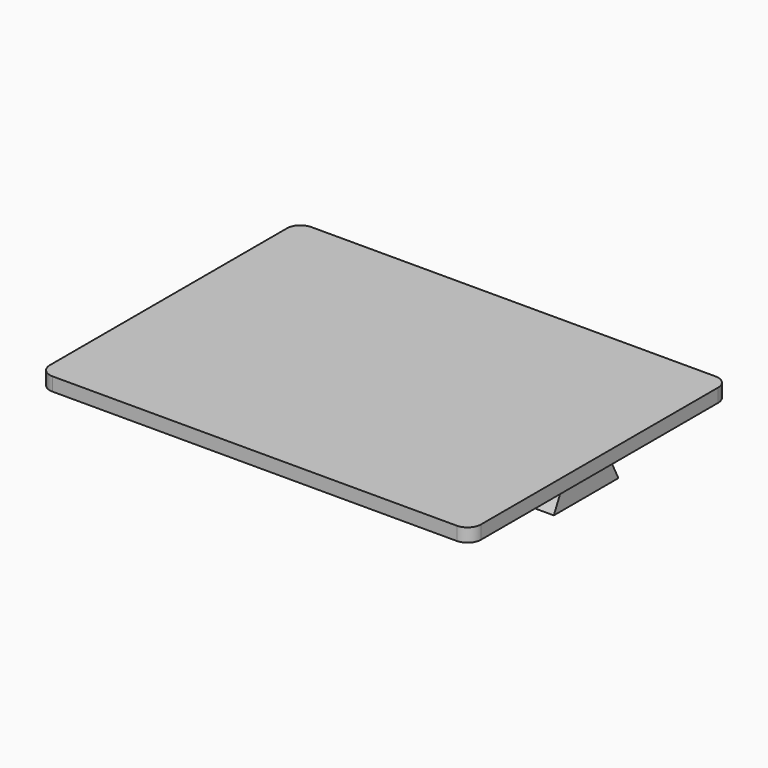
from build123d import *

# Parameters (mm, degrees)
F0_W          = 160
F0_H          = 120
F1_DEPTH      = 5
F2_R          = 5
F4_DEPTH      = 160
F5_W          = 90
F5_H          = 15
F5_W_2        = 5
F6_DEPTH      = 25
F6_DEPTH_BACK = 25


with BuildPart() as f1:
    # F0 (on Top) → F1 (new body)
    with BuildSketch(Plane.XY):
        Rectangle(F0_W, F0_H)
    extrude(amount=F1_DEPTH)

    # F2
    f2_edges = [f1.edges().sort_by_distance(p)[0] for p in [
        (80, 60, 2.5),
        (80, -60, 2.5),
        (-80, -60, 2.5),
        (-80, 60, 2.5),
    ]]
    fillet(f2_edges, radius=F2_R)

    # F3 (on face) → F4 (join)
    with BuildSketch(Plane.YZ.offset(80)):
        Polygon((9.97, 0), (-9.98, 0), (-14.98, -9.95), (14.97, -9.95), align=None)
    extrude(amount=-F4_DEPTH)

    # F5 (on Front) → F6 (cut, two sides)
    with BuildSketch(Plane.XZ) as f6_sk:
        with Locations((0, -7.5)):
            Rectangle(F5_W, F5_H)
        with Locations((-77.5, -7.5)):
            Rectangle(F5_W_2, F5_H)
        with Locations((77.5, -7.5)):
            Rectangle(F5_W_2, F5_H)
    extrude(amount=F6_DEPTH, mode=Mode.SUBTRACT)
    extrude(f6_sk.sketch, amount=-F6_DEPTH_BACK, mode=Mode.SUBTRACT)


solid = f1.part
